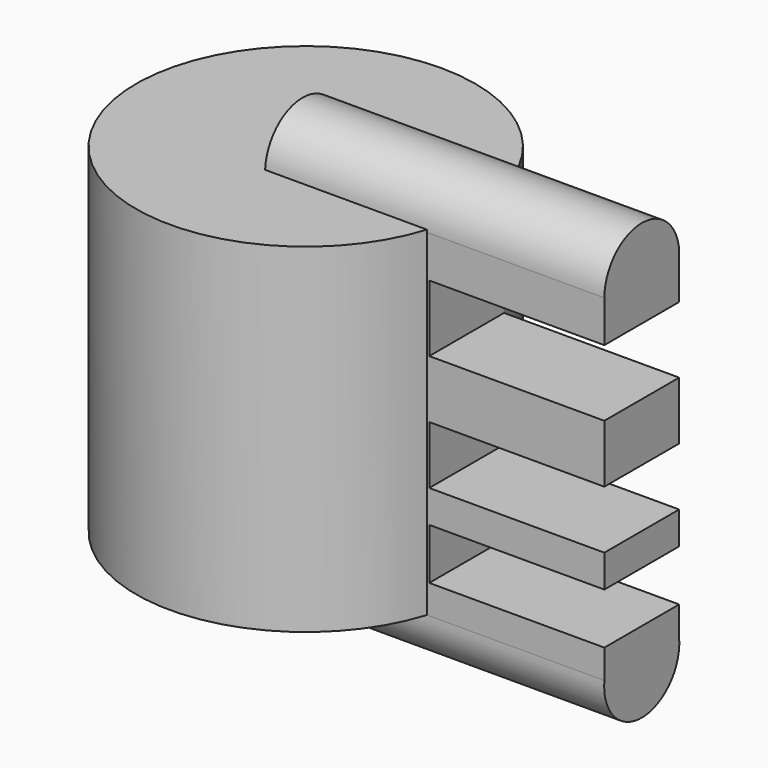
from build123d import *

# Parameters (mm, degrees)
F0_R     = 63.5
F1_DEPTH = 127
F3_DEPTH = 127
F4_W     = 65.542905265
F4_H     = 24.9171182513
F4_H_2   = 21.7300467193
F4_H_3   = 19.1224422306
F5_DEPTH = 35.56


with BuildPart() as f1:
    # F0 (on Top) → F1 (new body)
    with BuildSketch(Plane.XY):
        Circle(F0_R)
    extrude(amount=F1_DEPTH)

    # F2 (on Right) → F3 (join)
    with BuildSketch(Plane.YZ):
        with BuildLine():
            ThreePointArc((15.9773435444, 127.7705729008), (-2.3077528181, 143.6512031965), (-19.0271344036, 126.1297464371))
            Line((-19.0271344036, 126.1297464371), (-19.0271344036, 0))
            ThreePointArc((-19.0271344036, 0), (-1.5248954296, -19.3635171715), (15.9773435444, 0))
            Line((15.9773435444, 0), (15.9773435444, 127.7705729008))
        make_face()
    extrude(amount=F3_DEPTH)

    # F4 (on face) → F5 (cut)
    with BuildSketch(Plane(origin=(0, 15.9773435444, 0), x_dir=(-1, 0, 0), z_dir=(0, 1, 0))):
        with Locations((-94.2285473675, 98.0738960207)):
            Rectangle(F4_W, F4_H)
        with Locations((-94.2285473675, 53.0202630907)):
            Rectangle(F4_W, F4_H_2)
        with Locations((-94.2285473675, 20.4251902178)):
            Rectangle(F4_W, F4_H_3)
    extrude(amount=-F5_DEPTH, mode=Mode.SUBTRACT)


solid = f1.part
